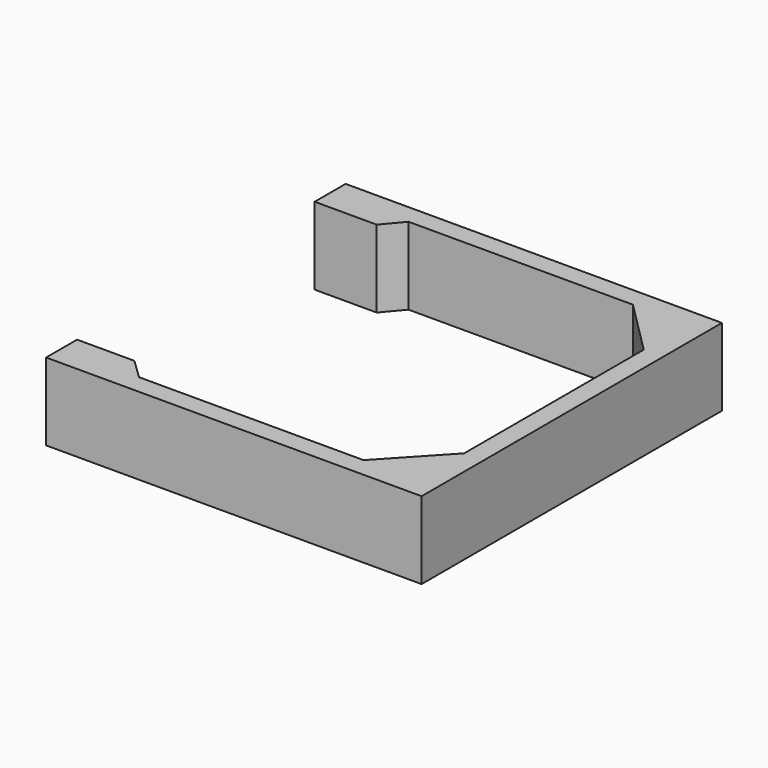
from build123d import *

# Parameters (mm, degrees)
PAD_DEPTH = 10


with BuildPart() as part:
    # Sketch (on XY_Plane of Origin) → Pad (new body)
    with BuildSketch(Plane.XY):
        Polygon((-8.959902, 21.146667), (20.040098, 21.146667), (27.040098, 14.146667), (27.040098, -14.853333), (20.040098, -22.353333), (-8.959902, -22.353333), (-11.575553, -19.853333), (-18.977017, -19.853333), (-18.977017, -24.853333), (29.540098, -24.853333), (29.540098, 23.646667), (-19.075553, 23.646667), (-19.075553, 18.646667), (-11.057514, 18.646667), align=None)
    extrude(amount=PAD_DEPTH)


solid = part.part
